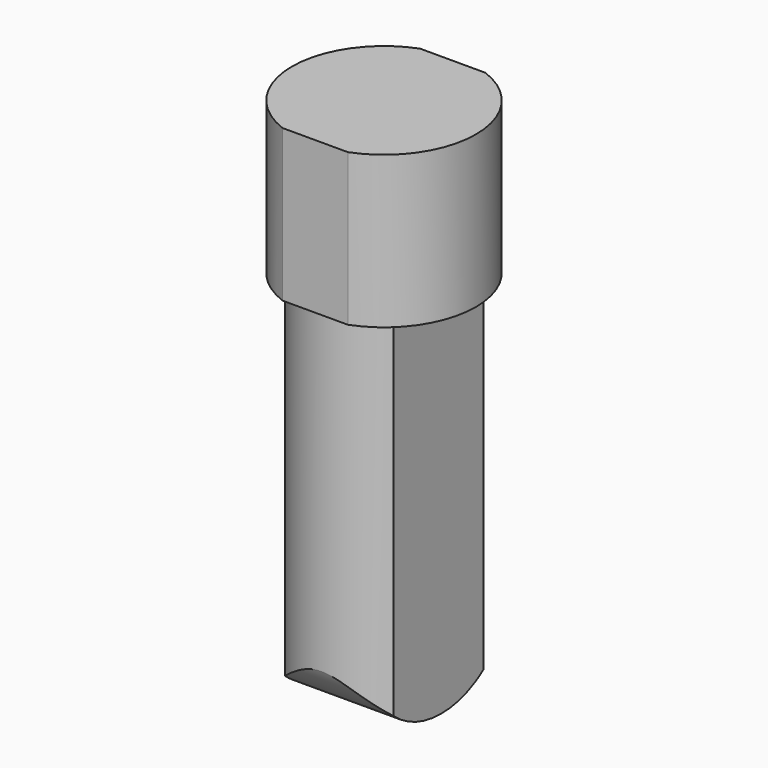
from build123d import *

# Parameters (mm, degrees)
F1_DEPTH = 38
F2_R     = 20.15
F3_DEPTH = 26
F5_DEPTH = 93
F7_DEPTH = 23.001
F8_DEPTH = 23.001


with BuildPart() as f1:
    # F0 (on Top) → F1 (new body)
    with BuildSketch(Plane.XY):
        with BuildLine():
            Line((8.1700673192, 21.5), (-8.1700673192, 21.5))
            ThreePointArc((-8.1700673192, 21.5), (-23, 0), (-8.1700673192, -21.5))
            Line((-8.1700673192, -21.5), (8.1700673192, -21.5))
            ThreePointArc((8.1700673192, -21.5), (23, 0), (8.1700673192, 21.5))
        make_face()
        with BuildLine():
            Line((8.1700673192, 21.5), (-8.1700673192, 21.5))
            ThreePointArc((-8.1700673192, 21.5), (-23, 0), (-8.1700673192, -21.5))
            Line((-8.1700673192, -21.5), (8.1700673192, -21.5))
            ThreePointArc((8.1700673192, -21.5), (23, 0), (8.1700673192, 21.5))
        make_face()
    extrude(amount=F1_DEPTH)

    # F2 (on Top) → F3 (cut)
    with BuildSketch(Plane.XY):
        Circle(F2_R)
    extrude(amount=F3_DEPTH, mode=Mode.SUBTRACT)


with BuildPart() as f5:
    # F4 (on Top) → F5 (new body)
    with BuildSketch(Plane.XY):
        with BuildLine():
            Line((-14.2760678833, 13.2832182016), (-13.5496060668, -14.0234865649))
            ThreePointArc((-13.5496060668, -14.0234865649), (0, -19.5), (13.5496060668, -14.0234865649))
            Line((13.5496060668, -14.0234865649), (14.2760678833, 13.2832182016))
            ThreePointArc((14.2760678833, 13.2832182016), (0, 19.5), (-14.2760678833, 13.2832182016))
        make_face()
    extrude(amount=-F5_DEPTH)

    # F6 (on Right) → F7 (cut, through all)
    with BuildSketch(Plane.YZ):
        with BuildLine():
            ThreePointArc((19.8433508687, -78.9692136549), (-2.1788867895, -92.5902863585), (-20.9512559641, -74.7546274516))
            Line((-20.9512559641, -74.7546274516), (-32.2703706109, -102.1996662021))
            Line((-32.2703706109, -102.1996662021), (31.4053460393, -102.1996662021))
            Line((31.4053460393, -102.1996662021), (19.8433508687, -78.9692136549))
        make_face()
    extrude(amount=F7_DEPTH, mode=Mode.SUBTRACT)

    # F8 (cut, through all): a face of the model
    f8_faces = [f5.faces().sort_by_distance(p)[0] for p in [
        (0, 19.0883456394, -86.4122627957),
    ]]
    extrude(f8_faces, amount=-F8_DEPTH, mode=Mode.SUBTRACT)


solid = Compound([f1.part, f5.part])
